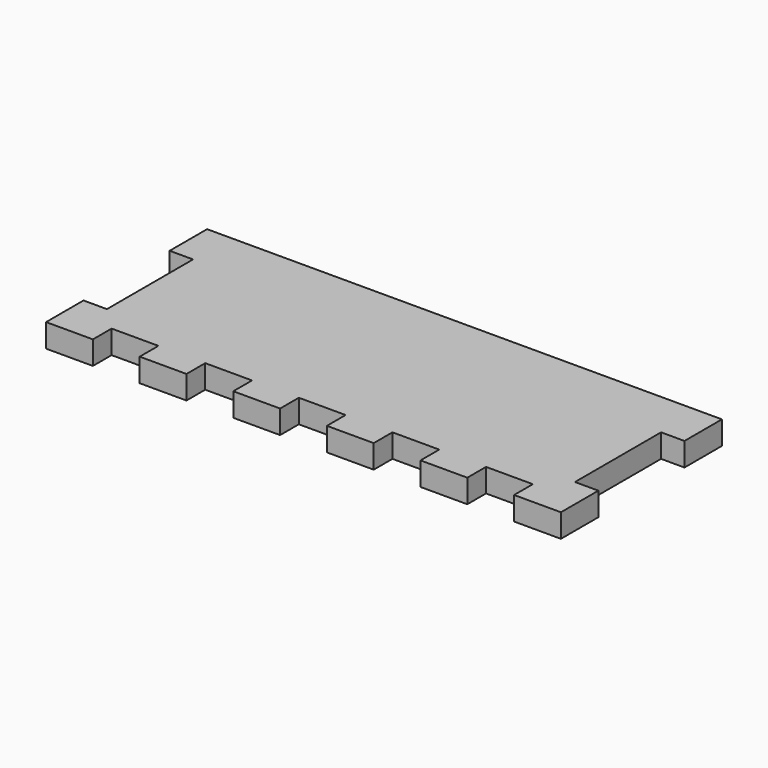
from build123d import *

# Parameters (mm, degrees)
F1_DEPTH = 6.35


with BuildPart() as f1:
    # F0 (on Top) → F1 (new body)
    with BuildSketch(Plane.XY):
        Polygon((139.7, 0), (0, 0), (0, -12.7), (6.35, -12.7), (6.35, -41.91), (0, -41.91), (0, -54.61), (12.7, -54.61), (12.7, -48.26), (25.4, -48.26), (25.4, -54.61), (38.1, -54.61), (38.1, -48.26), (50.8, -48.26), (50.8, -54.61), (63.5, -54.61), (63.5, -48.26), (76.2, -48.26), (76.2, -54.61), (88.9, -54.61), (88.9, -48.26), (101.6, -48.26), (101.6, -54.61), (114.3, -54.61), (114.3, -48.26), (127, -48.26), (127, -54.61), (139.7, -54.61), (139.7, -41.91), (133.35, -41.91), (133.35, -12.7), (139.7, -12.7), align=None)
    extrude(amount=F1_DEPTH)


solid = f1.part
